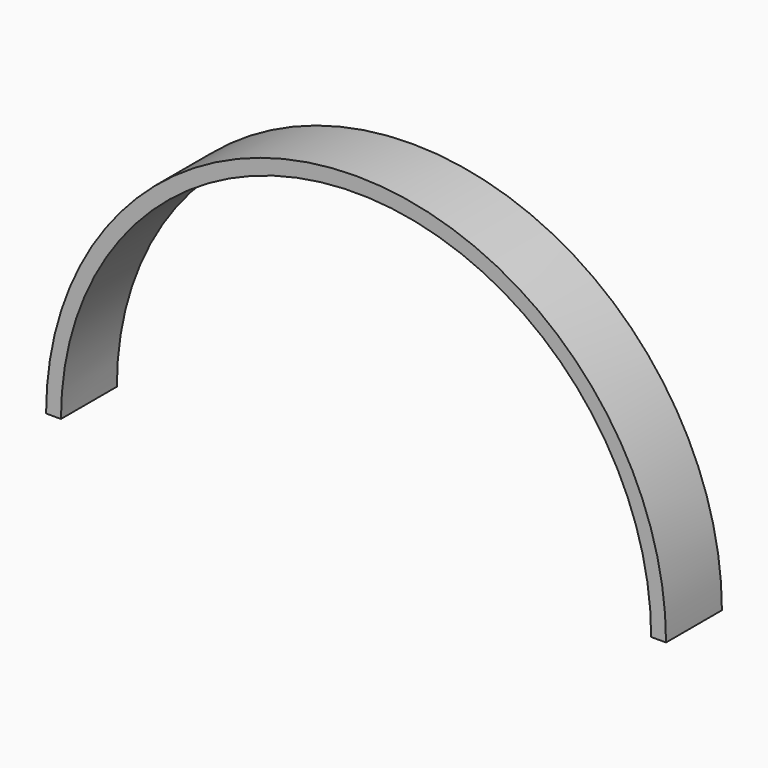
from build123d import *

# Parameters (mm, degrees)
F1_W = 2.118163
F1_H = 9.950492


with BuildPart() as f2:
    # F2: sweep along a path in F0
    with BuildLine(Plane.XZ) as f2_path:
        ThreePointArc((43.178614, 0), (0, 43.178614), (-43.178614, 0))
    # F1 (on Top) → F2 (sweep)
    with BuildSketch(Plane.XY):
        with Locations((-43.099728, 0)):
            Rectangle(F1_W, F1_H)
    sweep(path=f2_path.line)


solid = f2.part
